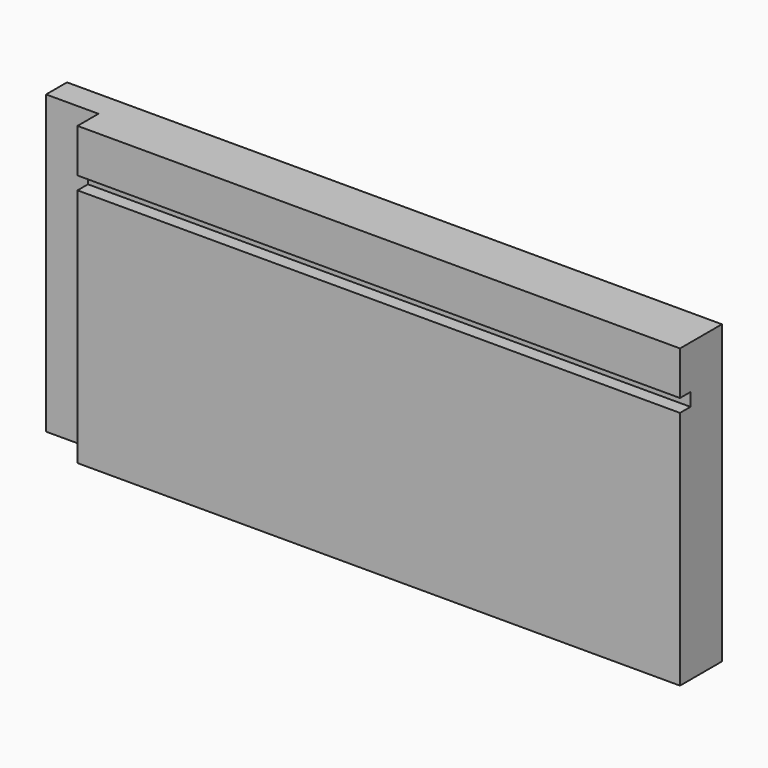
from build123d import *

# Parameters (mm, degrees)
F1_DEPTH = 150
F2_W     = 12
F2_H     = 6
F3_DEPTH = 68


with BuildPart() as f1:
    # F0 (on Right) → F1 (new body)
    with BuildSketch(Plane.YZ):
        Polygon((0, 55), (0, 0), (12, 0), (12, 68), (0, 68), (0, 58), (3, 58), (3, 55), align=None)
    extrude(amount=F1_DEPTH)

    # F2 (on Top) → F3 (cut)
    with BuildSketch(Plane.XY):
        with Locations((6, 3)):
            Rectangle(F2_W, F2_H)
    extrude(amount=F3_DEPTH, mode=Mode.SUBTRACT)


solid = f1.part
